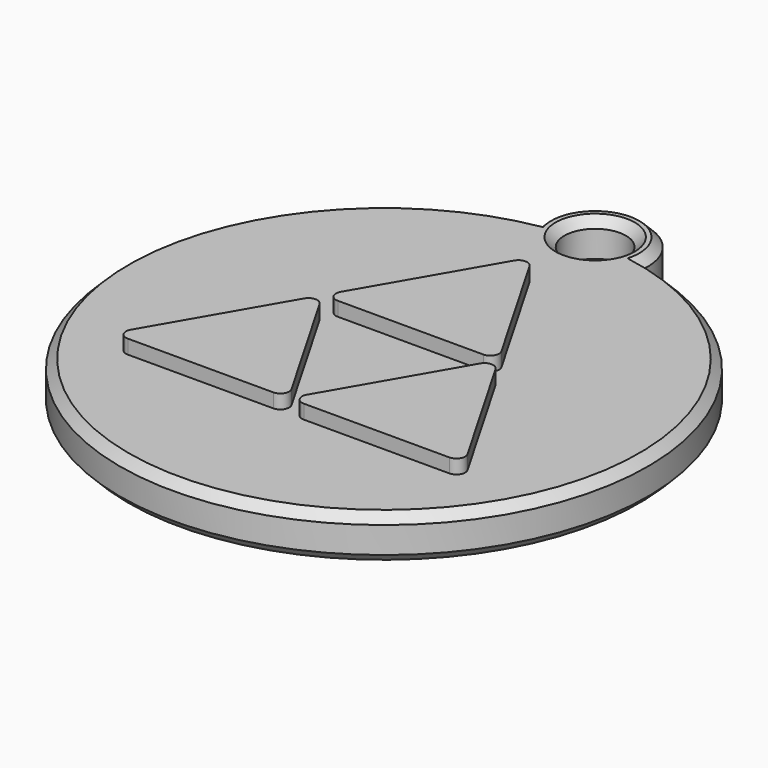
from build123d import *

# Parameters (mm, degrees)
F0_R     = 1.75
F1_DEPTH = 2.5
F3_DEPTH = 0.8
F4_SIZE  = 0.5


with BuildPart() as f1:
    # F0 (on Top) → F1 (new body)
    with BuildSketch(Plane.XY):
        with BuildLine():
            ThreePointArc((2.984962, 14.7), (0, 18), (-2.984962, 14.7))
            ThreePointArc((-2.984962, 14.7), (0, -15), (2.984962, 14.7))
        make_face()
        with Locations((0, 15)):
            Circle(F0_R, mode=Mode.SUBTRACT)
    extrude(amount=F1_DEPTH)

    # F2 (on face) → F3 (join)
    with BuildSketch(Plane.XY.offset(2.5)):
        with BuildLine():
            Line((-4.133975, 1.886751), (4.133975, 1.886751))
            ThreePointArc((4.133975, 1.886751), (4.566987, 2.136751), (4.566987, 2.636751))
            Line((4.566987, 2.636751), (0.433013, 9.797005))
            ThreePointArc((0.433013, 9.797005), (0, 10.047005), (-0.433013, 9.797005))
            Line((-0.433013, 9.797005), (-4.566987, 2.636751))
            ThreePointArc((-4.566987, 2.636751), (-4.566987, 2.136751), (-4.133975, 1.886751))
        make_face()
        with BuildLine():
            ThreePointArc((-4.566987, 1.136751), (-5, 1.386751), (-5.433013, 1.136751))
            Line((-5.433013, 1.136751), (-9.566987, -6.023503))
            ThreePointArc((-9.566987, -6.023503), (-9.566987, -6.523503), (-9.133975, -6.773503))
            Line((-9.133975, -6.773503), (-0.866025, -6.773503))
            ThreePointArc((-0.866025, -6.773503), (-0.433013, -6.523503), (-0.433013, -6.023503))
            Line((-0.433013, -6.023503), (-4.566987, 1.136751))
        make_face()
        with BuildLine():
            Line((4.566987, 1.136751), (0.433013, -6.023503))
            ThreePointArc((0.433013, -6.023503), (0.433013, -6.523503), (0.866025, -6.773503))
            Line((0.866025, -6.773503), (9.133975, -6.773503))
            ThreePointArc((9.133975, -6.773503), (9.566987, -6.523503), (9.566987, -6.023503))
            Line((9.566987, -6.023503), (5.433013, 1.136751))
            ThreePointArc((5.433013, 1.136751), (5, 1.386751), (4.566987, 1.136751))
        make_face()
    extrude(amount=F3_DEPTH)

    # F4
    f4_edges = [f1.edges().sort_by_distance(p)[0] for p in [
        (0, -15, 2.5),
        (0, -15, 0),
        (0, 18, 2.5),
        (0, 18, 0),
        (-1.75, 15, 0),
        (-1.75, 15, 2.5),
    ]]
    chamfer(f4_edges, length=F4_SIZE)


solid = f1.part
